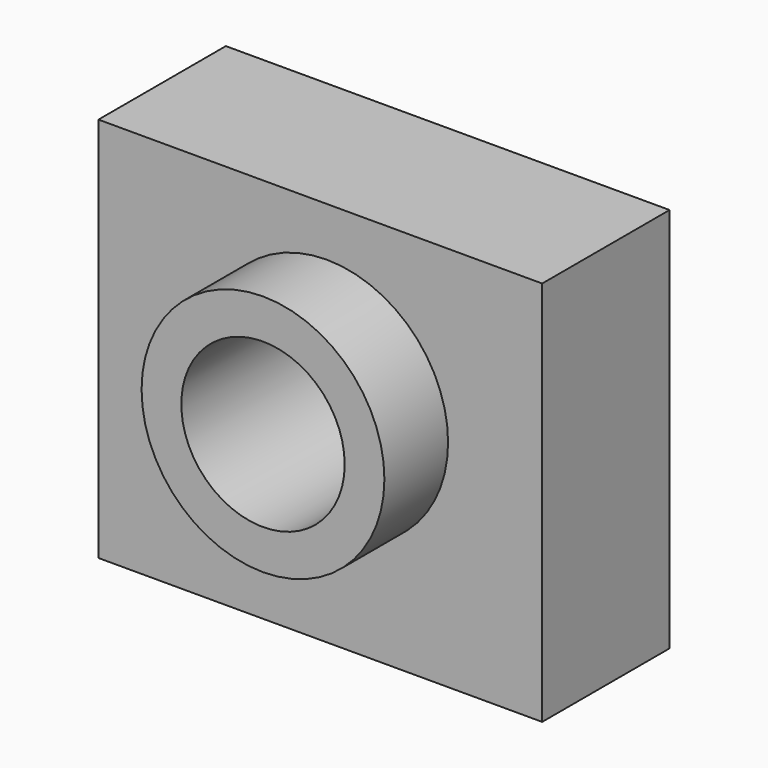
from build123d import *

# Parameters (mm, degrees)
F0_W     = 70.792261
F0_H     = 61.574518
F1_DEPTH = 25.4
F2_R     = 19.369368
F3_DEPTH = 38.1
F4_R     = 13.0339
F5_DEPTH = 38.1


with BuildPart() as f1:
    # F0 (on Front) → F1 (new body)
    with BuildSketch(Plane.XZ):
        with Locations((-1.013951, -3.59492)):
            Rectangle(F0_W, F0_H)
    extrude(amount=F1_DEPTH)

    # F2 (on Front) → F3 (join)
    with BuildSketch(Plane.XZ):
        Circle(F2_R)
    extrude(amount=F3_DEPTH)

    # F4 (on Front) → F5 (cut)
    with BuildSketch(Plane.XZ):
        Circle(F4_R)
    extrude(amount=F5_DEPTH, mode=Mode.SUBTRACT)


solid = f1.part
